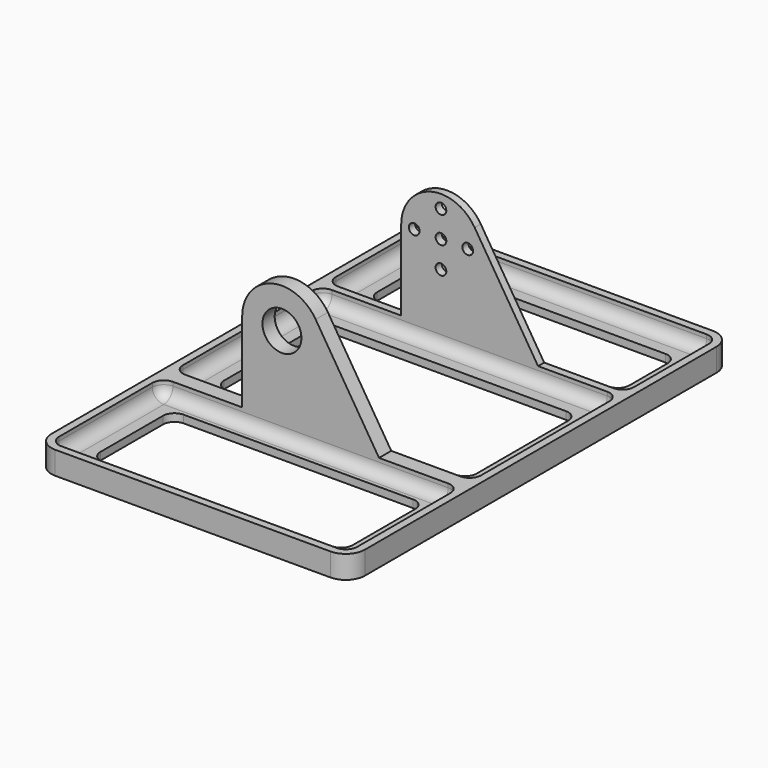
from build123d import *

# Parameters (mm, degrees)
PAD_DEPTH    = 2
SKETCH001_R  = 5.1
PAD001_DEPTH = 4
SKETCH003_R  = 1.4
PAD003_DEPTH = 2
PAD004_DEPTH = 4
FILLET_R     = 3
FILLET001_R  = 3
FILLET002_R  = 3
FILLET003_R  = 3
FILLET004_R  = 3
FILLET005_R  = 3
FILLET006_R  = 3
FILLET007_R  = 3


with BuildPart() as body:
    # Sketch → Pad (new body)
    with BuildSketch(Plane.XY):
        with BuildLine():
            Line((-36, 62.5), (36, 62.5))
            ThreePointArc((41, 57.5), (39.535534, 61.035534), (36, 62.5))
            Line((41, 57.5), (41, -57.5))
            ThreePointArc((36, -62.5), (39.535534, -61.035534), (41, -57.5))
            Line((36, -62.5), (-36, -62.5))
            ThreePointArc((-41, -57.5), (-39.535534, -61.035534), (-36, -62.5))
            Line((-41, -57.5), (-41, 57.5))
            ThreePointArc((-36, 62.5), (-39.535534, 61.035534), (-41, 57.5))
        make_face()
        with BuildLine():
            ThreePointArc((-30, 54.5), (-32.12132, 53.62132), (-33, 51.5))
            Line((-33, 39), (-33, 51.5))
            ThreePointArc((-33, 39), (-32.12132, 36.87868), (-30, 36))
            Line((30, 36), (-30, 36))
            ThreePointArc((30, 36), (32.12132, 36.87868), (33, 39))
            Line((33, 51.5), (33, 39))
            ThreePointArc((33, 51.5), (32.12132, 53.62132), (30, 54.5))
            Line((-30, 54.5), (30, 54.5))
        make_face(mode=Mode.SUBTRACT)
        with BuildLine():
            ThreePointArc((-30, -28), (-32.12132, -28.87868), (-33, -31))
            Line((-33, -51.5), (-33, -31))
            ThreePointArc((-33, -51.5), (-32.12132, -53.62132), (-30, -54.5))
            Line((30, -54.5), (-30, -54.5))
            ThreePointArc((30, -54.5), (32.12132, -53.62132), (33, -51.5))
            Line((33, -31), (33, -51.5))
            ThreePointArc((33, -31), (32.12132, -28.87868), (30, -28))
            Line((-30, -28), (30, -28))
        make_face(mode=Mode.SUBTRACT)
        with BuildLine():
            ThreePointArc((-30, 22), (-32.12132, 21.12132), (-33, 19))
            Line((-33, -11), (-33, 19))
            ThreePointArc((-33, -11), (-32.12132, -13.12132), (-30, -14))
            Line((30, -14), (-30, -14))
            ThreePointArc((30, -14), (32.12132, -13.12132), (33, -11))
            Line((33, 19), (33, -11))
            ThreePointArc((33, 19), (32.12132, 21.12132), (30, 22))
            Line((-30, 22), (30, 22))
        make_face(mode=Mode.SUBTRACT)
    extrude(amount=PAD_DEPTH)

    # Sketch001 → Pad001 (join)
    with BuildSketch(Plane(origin=(7.5, -20, 0), x_dir=(1, 0, 0), z_dir=(0, -1, 0))):
        with BuildLine():
            Line((10.4, 27), (10.4, 6))
            Line((33.5, 6), (10.4, 6))
            Line((33.5, 2), (33.5, 6))
            Line((-48.5, 2), (33.5, 2))
            Line((-48.5, 6), (-48.5, 2))
            Line((-25.4, 6), (-48.5, 6))
            Line((-25.4, 6), (-8.817564, 32.514577))
            ThreePointArc((10.4, 27), (2.868565, 36.996566), (-8.817564, 32.514577))
        make_face()
        with Locations((0, 27)):
            Circle(SKETCH001_R, mode=Mode.SUBTRACT)
    extrude(amount=PAD001_DEPTH)

    # Sketch003 → Pad003 (join)
    with BuildSketch(Plane(origin=(7.5, 30, 0), x_dir=(1, 0, 0), z_dir=(0, -1, 0))):
        with BuildLine():
            Line((33.5, 2), (-48.5, 2))
            Line((-48.5, 6), (-48.5, 2))
            Line((-25.4, 6), (-48.5, 6))
            Line((-8.817564, 32.514577), (-25.4, 6))
            ThreePointArc((10.4, 27), (2.868565, 36.996566), (-8.817564, 32.514577))
            Line((10.4, 27), (10.4, 6))
            Line((10.4, 6), (33.5, 6))
            Line((33.5, 6), (33.5, 2))
        make_face()
        with Locations((0, 27)):
            Circle(SKETCH003_R, mode=Mode.SUBTRACT)
        with Locations((-7, 27)):
            Circle(SKETCH003_R, mode=Mode.SUBTRACT)
        with Locations((0, 20)):
            Circle(SKETCH003_R, mode=Mode.SUBTRACT)
        with Locations((7, 27)):
            Circle(SKETCH003_R, mode=Mode.SUBTRACT)
        with Locations((0, 34)):
            Circle(SKETCH003_R, mode=Mode.SUBTRACT)
    extrude(amount=PAD003_DEPTH)

    # Sketch004 (on Face5 of Pad003) → Pad004 (join)
    with BuildSketch(Plane.XY.offset(2)):
        with BuildLine():
            Line((-36, 62.5), (36, 62.5))
            ThreePointArc((41, 57.5), (39.535534, 61.035534), (36, 62.5))
            Line((41, -57.5), (41, 57.5))
            ThreePointArc((36, -62.5), (39.535534, -61.035534), (41, -57.5))
            Line((-36, -62.5), (36, -62.5))
            ThreePointArc((-41, -57.5), (-39.535534, -61.035534), (-36, -62.5))
            Line((-41, 57.5), (-41, -57.5))
            ThreePointArc((-36, 62.5), (-39.535534, 61.035534), (-41, 57.5))
        make_face()
        with BuildLine():
            Line((-36, 60.5), (36, 60.5))
            ThreePointArc((39, 57.5), (38.12132, 59.62132), (36, 60.5))
            Line((39, 57.5), (39, -57.5))
            ThreePointArc((36, -60.5), (38.12132, -59.62132), (39, -57.5))
            Line((36, -60.5), (-36, -60.5))
            ThreePointArc((-39, -57.5), (-38.12132, -59.62132), (-36, -60.5))
            Line((-39, -57.5), (-39, 57.5))
            ThreePointArc((-36, 60.5), (-38.12132, 59.62132), (-39, 57.5))
        make_face(mode=Mode.SUBTRACT)
    extrude(amount=PAD004_DEPTH)

    # Fillet
    fillet_edges = [body.edges().sort_by_distance(p)[0] for p in [
        (-39, 4, 2),
    ]]
    fillet(fillet_edges, radius=FILLET_R)

    # Fillet001
    fillet001_edges = [body.edges().sort_by_distance(p)[0] for p in [
        (-39, -40.75, 2),
    ]]
    fillet(fillet001_edges, radius=FILLET001_R)

    # Fillet002
    fillet002_edges = [body.edges().sort_by_distance(p)[0] for p in [
        (0, -24, 2),
    ]]
    fillet(fillet002_edges, radius=FILLET002_R)

    # Fillet003
    fillet003_edges = [body.edges().sort_by_distance(p)[0] for p in [
        (1.5, 28, 2),
    ]]
    fillet(fillet003_edges, radius=FILLET003_R)

    # Fillet004
    fillet004_edges = [body.edges().sort_by_distance(p)[0] for p in [
        (1.5, -20, 2),
    ]]
    fillet(fillet004_edges, radius=FILLET004_R)

    # Fillet005
    fillet005_edges = [body.edges().sort_by_distance(p)[0] for p in [
        (39, 4, 2),
    ]]
    fillet(fillet005_edges, radius=FILLET005_R)

    # Fillet006
    fillet006_edges = [body.edges().sort_by_distance(p)[0] for p in [
        (0, 60.5, 2),
    ]]
    fillet(fillet006_edges, radius=FILLET006_R)

    # Fillet007
    fillet007_edges = [body.edges().sort_by_distance(p)[0] for p in [
        (0, 30, 2),
    ]]
    fillet(fillet007_edges, radius=FILLET007_R)


with BuildPart() as part_mirroring:
    # Part__Mirroring: instance of Body
    add(body.part.mirror(Plane(origin=(0, 0, 0), x_dir=(0, -1, 0), z_dir=(1, 0, 0))))


solid = part_mirroring.part
